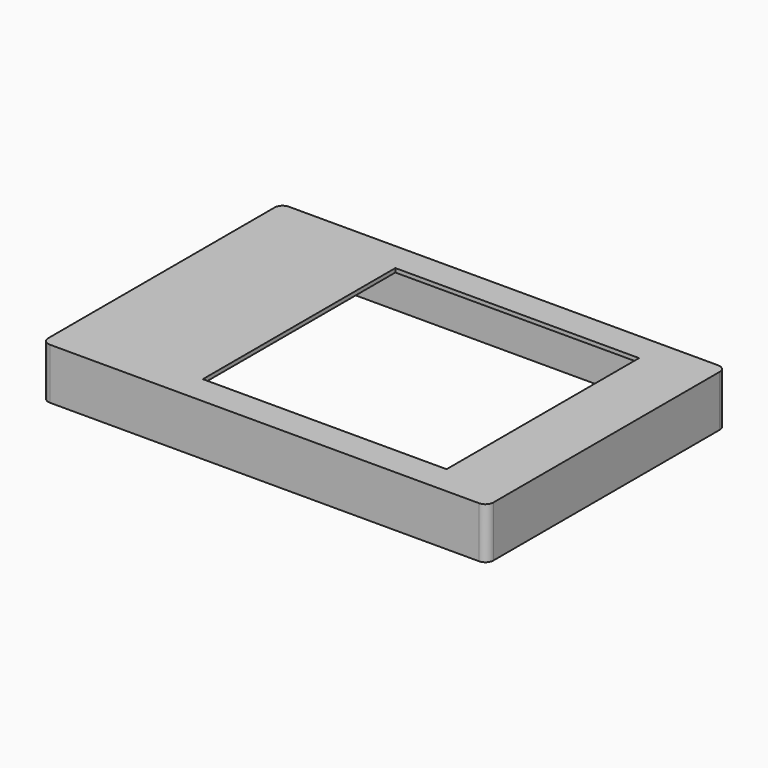
from build123d import *

# Parameters (mm, degrees)
CYLINDER_R       = 0.6
CYLINDER_DEPTH   = 3
ARRAY001_X_COUNT = 2
ARRAY001_X_PITCH = 49
ARRAY001_Y_COUNT = 2
ARRAY001_Y_PITCH = 31
BOX008_W         = 31
BOX008_H         = 30.6
BOX008_DEPTH     = 10
BOX001_W         = 42
BOX001_H         = 36
BOX001_DEPTH     = 4.5
BOX002_W         = 4
BOX002_H         = 4
BOX002_DEPTH     = 2.4
ARRAY_X_COUNT    = 2
ARRAY_X_PITCH    = 50.6
ARRAY_Y_COUNT    = 2
ARRAY_Y_PITCH    = 32
BOX003_W         = 54.6
BOX003_H         = 36
BOX003_DEPTH     = 3.9
FILLET001_R      = 1
BOX_W            = 56.6
BOX_H            = 38
BOX_DEPTH        = 6.5
FILLET_R         = 1


with BuildPart() as hole_array:
    # Cylinder → Cylinder (new body)
    with BuildSketch(Plane(origin=(3.8, 3.5, 0), x_dir=(1, 0, 0), z_dir=(0, 0, 1))):
        Circle(CYLINDER_R)
    extrude(amount=CYLINDER_DEPTH)

    # Array001 X: hole array ×2


with BuildPart() as hole_array_1:
    add(hole_array.part)
    with Locations(*[(i * ARRAY001_X_PITCH, 0, 0) for i in range(1, ARRAY001_X_COUNT)]):
        add(hole_array.part)

    # Array001 Y: hole array ×2


with BuildPart() as hole_array_2:
    add(hole_array_1.part)
    with Locations(*[(0, i * ARRAY001_Y_PITCH, 0) for i in range(1, ARRAY001_Y_COUNT)]):
        add(hole_array_1.part)


with BuildPart() as display_hole:
    # Box008 → Box008 (new body)
    with BuildSketch(Plane(origin=(17.5, 3.7, 0), x_dir=(1, 0, 0), z_dir=(0, 0, 1))):
        with Locations((15.5, 15.3)):
            Rectangle(BOX008_W, BOX008_H)
    extrude(amount=BOX008_DEPTH)


with BuildPart() as hole_fusion:
    # Box001 → Box001 (new body)
    with BuildSketch(Plane(origin=(9, 1, 0), x_dir=(1, 0, 0), z_dir=(0, 0, 1))):
        with Locations((21, 18)):
            Rectangle(BOX001_W, BOX001_H)
    extrude(amount=BOX001_DEPTH)

    # Fusion001: union hole array, display_hole
    add(hole_array_2.part)
    add(display_hole.part)


with BuildPart() as hole_stand_array:
    # Box002 → Box002 (new body)
    with BuildSketch(Plane(origin=(1, 1, 0), x_dir=(1, 0, 0), z_dir=(0, 0, 1))):
        with Locations((2, 2)):
            Rectangle(BOX002_W, BOX002_H)
    extrude(amount=BOX002_DEPTH)

    # Array X: hole stand array ×2


with BuildPart() as hole_stand_array_1:
    add(hole_stand_array.part)
    with Locations(*[(i * ARRAY_X_PITCH, 0, 0) for i in range(1, ARRAY_X_COUNT)]):
        add(hole_stand_array.part)

    # Array Y: hole stand array ×2


with BuildPart() as hole_stand_array_2:
    add(hole_stand_array_1.part)
    with Locations(*[(0, i * ARRAY_Y_PITCH, 0) for i in range(1, ARRAY_Y_COUNT)]):
        add(hole_stand_array_1.part)


with BuildPart() as top_cover_extract_fillet:
    # Box003 → Box003 (new body)
    with BuildSketch(Plane(origin=(1, 1, -1.5), x_dir=(1, 0, 0), z_dir=(0, 0, 1))):
        with Locations((27.3, 18)):
            Rectangle(BOX003_W, BOX003_H)
    extrude(amount=BOX003_DEPTH)

    # Fillet001
    fillet001_edges = [top_cover_extract_fillet.edges().sort_by_distance(p)[0] for p in [
        (1, 1, 0.45),
        (1, 37, 0.45),
        (55.6, 1, 0.45),
        (55.6, 37, 0.45),
    ]]
    fillet(fillet001_edges, radius=FILLET001_R)


with BuildPart() as obj1:
    # Box → Box (new body)
    with BuildSketch(Plane.XY.offset(-1.5)):
        with Locations((28.3, 19)):
            Rectangle(BOX_W, BOX_H)
    extrude(amount=BOX_DEPTH)

    # Fillet
    fillet_edges = [obj1.edges().sort_by_distance(p)[0] for p in [
        (0, 0, 1.75),
        (0, 38, 1.75),
        (56.6, 0, 1.75),
        (56.6, 38, 1.75),
    ]]
    fillet(fillet_edges, radius=FILLET_R)

    # Cut: cut top cover extract fillet
    add(top_cover_extract_fillet.part, mode=Mode.SUBTRACT)

    # Fusion: union hole stand array
    add(hole_stand_array_2.part)

    # Cut001: cut hole fusion
    add(hole_fusion.part, mode=Mode.SUBTRACT)


solid = obj1.part
